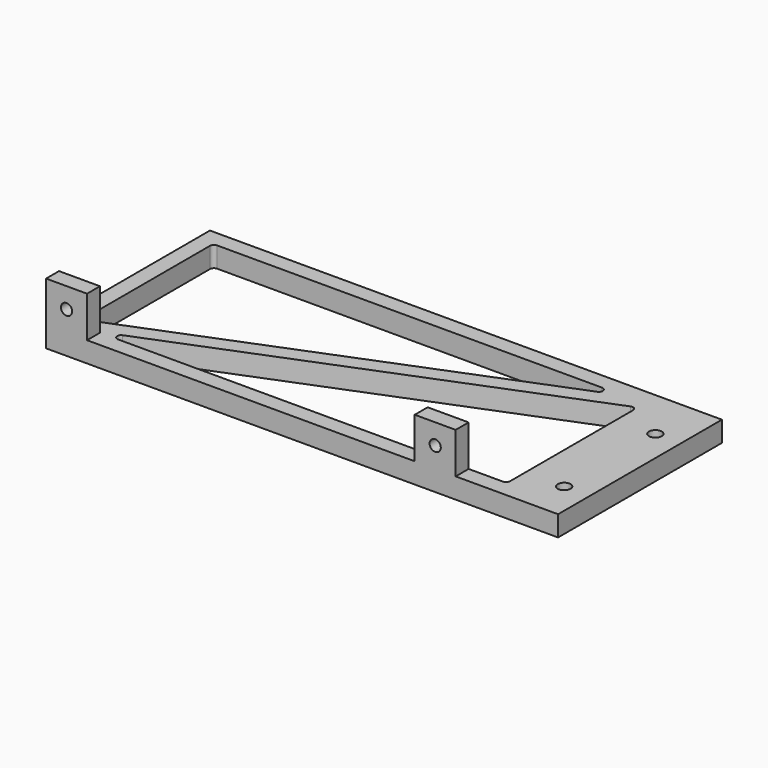
from build123d import *

# Parameters (mm, degrees)
SKETCH_W     = 127
SKETCH_H     = 50.8
PAD_DEPTH    = 5.08
SKETCH001_R  = 1.5875
POCKET_DEPTH = 5.081
FILLET_R     = 0.999998
FILLET001_R  = 0.999998
FILLET002_R  = 0.999998
SKETCH002_W  = 10.16
SKETCH002_H  = 4.0132
PAD001_DEPTH = 10.16
SKETCH003_R  = 1.389063
HOLE_DEPTH   = 50.801


with BuildPart() as part:
    # Sketch → Pad (new body)
    with BuildSketch(Plane.XY):
        Rectangle(SKETCH_W, SKETCH_H)
    extrude(amount=PAD_DEPTH)

    # Sketch001 (on Face6 of Pad) → Pocket (cut, through all)
    with BuildSketch(Plane.XY.offset(5.08)):
        with Locations((57.15, 12.7)):
            Circle(SKETCH001_R)
        with Locations((57.15, -15.567334)):
            Circle(SKETCH001_R)
        Polygon((-54.077858, -21.3868), (47.585089, -21.3868), (47.585089, 19.226009), align=None)
        Polygon((42.176147, 21.3868), (-59.4868, 21.3868), (-59.4868, -19.226009), align=None)
    extrude(amount=-POCKET_DEPTH, mode=Mode.SUBTRACT)

    # Fillet
    fillet_edges = [part.edges().sort_by_distance(p)[0] for p in [
        (-59.4868, 21.3868, 2.54),
        (47.585089, -21.3868, 2.54),
    ]]
    fillet(fillet_edges, radius=FILLET_R)

    # Fillet001
    fillet001_edges = [part.edges().sort_by_distance(p)[0] for p in [
        (-54.077858, -21.3868, 2.54),
        (42.176147, 21.3868, 2.54),
    ]]
    fillet(fillet001_edges, radius=FILLET001_R)

    # Fillet002
    fillet002_edges = [part.edges().sort_by_distance(p)[0] for p in [
        (47.585089, 19.226009, 2.54),
        (-59.4868, -19.226009, 2.54),
    ]]
    fillet(fillet002_edges, radius=FILLET002_R)

    # Sketch002 (on Face20 of Fillet002) → Pad001 (join)
    with BuildSketch(Plane.XY.offset(5.08)):
        with Locations((-58.42, -23.3934)):
            Rectangle(SKETCH002_W, SKETCH002_H)
        with Locations((33.02, -23.3934)):
            Rectangle(SKETCH002_W, SKETCH002_H)
    extrude(amount=PAD001_DEPTH)

    # Sketch003 (on Face22 of Pad001) → Hole (cut, through all)
    with BuildSketch(Plane.XZ.offset(25.4)):
        with Locations((-58.42, 10.16)):
            Circle(SKETCH003_R)
        with Locations((33.02, 10.16)):
            Circle(SKETCH003_R)
    extrude(amount=-HOLE_DEPTH, mode=Mode.SUBTRACT)


solid = part.part
